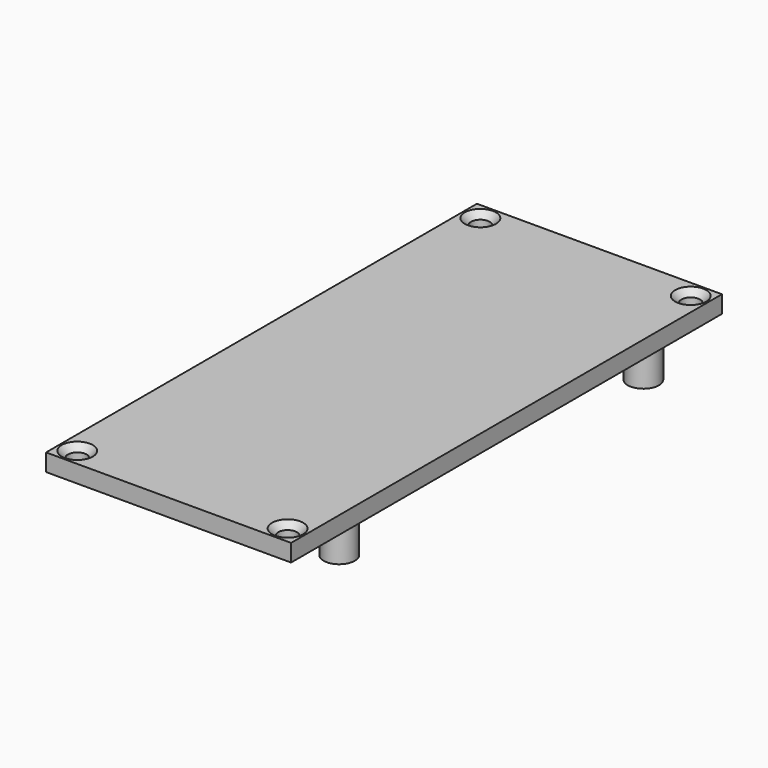
from build123d import *

# Parameters (mm, degrees)
SKETCH009_W      = 35.3624
SKETCH009_H      = 77.7328
PAD004_DEPTH     = 2.5
SKETCH010_R      = 2.25
PAD005_DEPTH     = 6.9
HOLE_D           = 2.7
HOLE_CSINK_D     = 4.5
HOLE_CSINK_ANGLE = 90


with BuildPart() as part:
    # Sketch009 (on CopyDatumPlane) → Pad004 (new body)
    with BuildSketch(Plane.XY.offset(8.5)):
        with Locations((14.6812, 25.8664)):
            Rectangle(SKETCH009_W, SKETCH009_H)
    extrude(amount=PAD004_DEPTH)

    # Sketch010 (on CopyDatumPlane) → Pad005 (join)
    with BuildSketch(Plane.XY.offset(8.5)):
        with Locations((2.1844, 57.038)):
            Circle(SKETCH010_R)
        with Locations((27.178, 57.038)):
            Circle(SKETCH010_R)
        with Locations((27.178, 2.174)):
            Circle(SKETCH010_R)
        with Locations((2.1844, 2.174)):
            Circle(SKETCH010_R)
    extrude(amount=-PAD005_DEPTH)

    # Hole (through all)
    with Locations(Plane.XY.offset(11)):
        with Locations((-0.5, 62.2328), (29.8624, 62.2328), (29.8624, -10.5), (-0.5, -10.5)):
            CounterSinkHole(HOLE_D / 2, HOLE_CSINK_D / 2, counter_sink_angle=HOLE_CSINK_ANGLE)


solid = part.part
